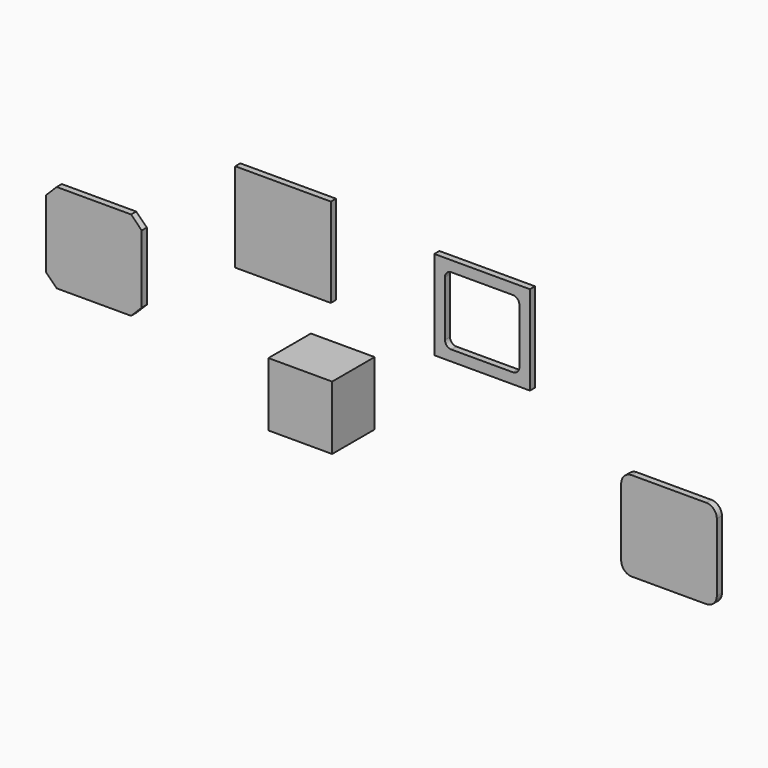
from build123d import *

# Parameters (mm, degrees)
F0_W     = 45
F0_H     = 42
F1_DEPTH = 3
F2_W     = 45
F2_H     = 42
F3_DEPTH = 3
F4_W     = 30
F4_H     = 30
F5_DEPTH = 25
F7_DEPTH = 3
F9_DEPTH = 3


with BuildPart() as f1:
    # F0 (on Front) → F1 (new body)
    with BuildSketch(Plane.XZ):
        with Locations((-58.52517, 36.945819)):
            Rectangle(F0_W, F0_H)
    extrude(amount=F1_DEPTH)


with BuildPart() as f3:
    # F2 (on Front) → F3 (new body)
    with BuildSketch(Plane.XZ):
        with Locations((35.158463, 31.098792)):
            Rectangle(F2_W, F2_H)
        with BuildLine():
            Line((20.658463, 47.098792), (49.658463, 47.098792))
            ThreePointArc((49.658463, 47.098792), (51.779783, 46.220113), (52.658463, 44.098792))
            Line((52.658463, 44.098792), (52.658463, 18.098792))
            ThreePointArc((52.658463, 18.098792), (51.779783, 15.977472), (49.658463, 15.098792))
            Line((49.658463, 15.098792), (20.658463, 15.098792))
            ThreePointArc((20.658463, 15.098792), (18.537143, 15.977472), (17.658463, 18.098792))
            Line((17.658463, 18.098792), (17.658463, 44.098792))
            ThreePointArc((17.658463, 44.098792), (18.537143, 46.220113), (20.658463, 47.098792))
        make_face(mode=Mode.SUBTRACT)
    extrude(amount=F3_DEPTH)


with BuildPart() as f5:
    # F4 (on Front) → F5 (new body)
    with BuildSketch(Plane.XZ):
        with Locations((-32.826145, -16.765122)):
            Rectangle(F4_W, F4_H)
    extrude(amount=F5_DEPTH)


with BuildPart() as f7:
    # F6 (on Front) → F7 (new body)
    with BuildSketch(Plane.XZ):
        with BuildLine():
            Line((140.597949, -9.359423), (105.597949, -9.359423))
            ThreePointArc((105.597949, -9.359423), (102.062415, -10.823889), (100.597949, -14.359423))
            Line((100.597949, -14.359423), (100.597949, -46.359423))
            ThreePointArc((100.597949, -46.359423), (102.062415, -49.894957), (105.597949, -51.359423))
            Line((105.597949, -51.359423), (140.597949, -51.359423))
            ThreePointArc((140.597949, -51.359423), (144.133483, -49.894957), (145.597949, -46.359423))
            Line((145.597949, -46.359423), (145.597949, -14.359423))
            ThreePointArc((145.597949, -14.359423), (144.133483, -10.823889), (140.597949, -9.359423))
        make_face()
    extrude(amount=F7_DEPTH)


with BuildPart() as f9:
    # F8 (on Front) → F9 (new body)
    with BuildSketch(Plane.XZ):
        Polygon((-130.044452, 22.039932), (-165.044452, 22.039932), (-170.044452, 17.039932), (-170.044452, -14.960068), (-165.044452, -19.960068), (-130.044452, -19.960068), (-125.044452, -14.960068), (-125.044452, 17.039932), align=None)
    extrude(amount=F9_DEPTH)


solid = Compound([f1.part, f3.part, f5.part, f7.part, f9.part])
